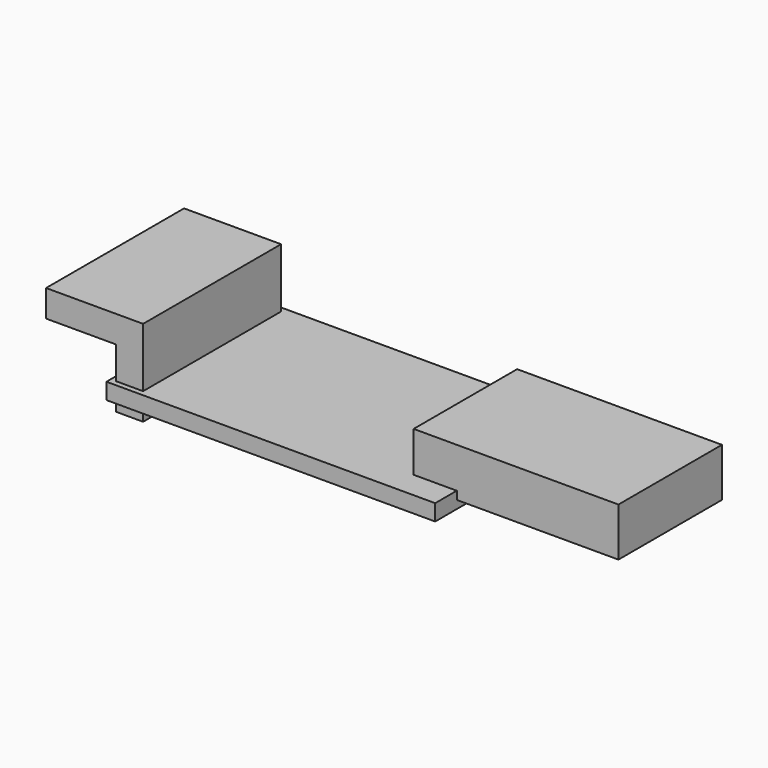
from build123d import *

# Parameters (mm, degrees)
F0_W     = 30.5
F0_H     = 17
F1_DEPTH = 1.5
F4_DEPTH = 12
F6_W     = 2.5
F6_H     = 3
F6_W_2   = 6.5
F6_H_2   = 2.5
F7_DEPTH = 16
F8_W     = 2.5
F8_H     = 16
F9_DEPTH = 1


with BuildPart() as f1:
    # F0 (on Top) → F1 (new body)
    with BuildSketch(Plane.XY):
        Rectangle(F0_W, F0_H)
    extrude(amount=F1_DEPTH)


with BuildPart() as f4:
    # F3 (on offset) → F4 (new body)
    with BuildSketch(Plane.XZ.offset(6)):
        Polygon((11.25, 1.5), (15.25, 1.5), (15.25, 0.75), (30.25, 0.75), (30.25, 5.25), (11.25, 5.25), align=None)
    extrude(amount=-F4_DEPTH)


with BuildPart() as f7:
    # F6 (on offset) → F7 (new body)
    with BuildSketch(Plane.XZ.offset(8)):
        with Locations((-13.5, 3)):
            Rectangle(F6_W, F6_H)
        with Locations((-18, 5.75)):
            Rectangle(F6_W_2, F6_H_2)
        with Locations((-13.5, 5.75)):
            Rectangle(F6_W, F6_H_2)
    extrude(amount=-F7_DEPTH)


with BuildPart() as f9:
    # F8 (on face) → F9 (new body)
    with BuildSketch(Plane(origin=(0, 0, 0), x_dir=(1, 0, 0), z_dir=(0, 0, -1))):
        with Locations((-13.5, 0)):
            Rectangle(F8_W, F8_H)
    extrude(amount=F9_DEPTH)


solid = Compound([f1.part, f4.part, f7.part, f9.part])
